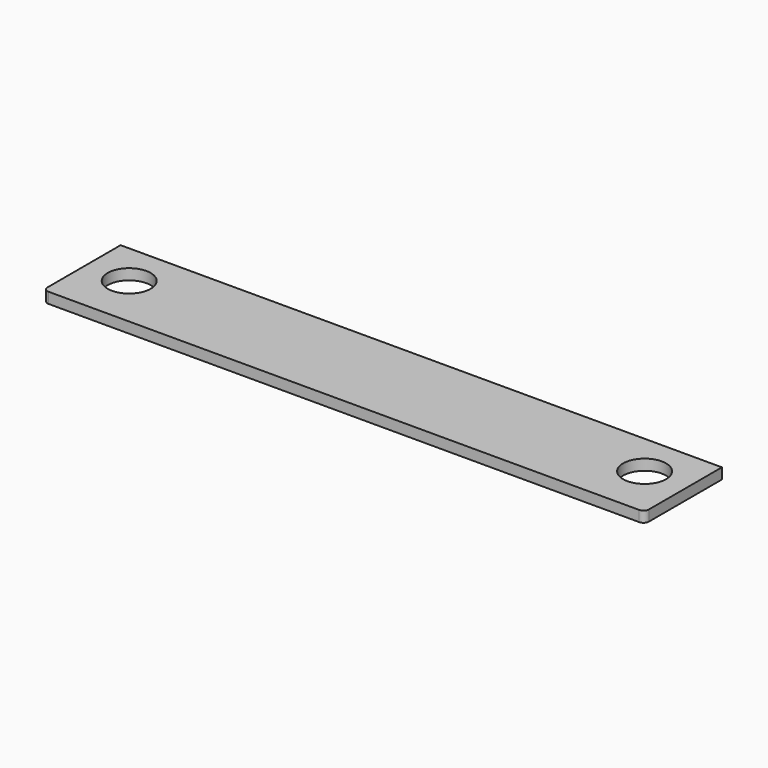
from build123d import *

# Parameters (mm, degrees)
F0_R     = 2
F1_DEPTH = 1


with BuildPart() as f1:
    # F0 (on Top) → F1 (new body)
    with BuildSketch(Plane.XY):
        with BuildLine():
            ThreePointArc((-28, -4.5), (-27.853553, -4.853553), (-27.5, -5))
            Line((-27.5, -5), (27.5, -5))
            ThreePointArc((27.5, -5), (27.853553, -4.853553), (28, -4.5))
            Line((28, -4.5), (28, 4))
            Line((28, 4), (-28, 4))
            Line((-28, 4), (-28, -4.5))
        make_face()
        with Locations((-24, 0)):
            Circle(F0_R, mode=Mode.SUBTRACT)
        with Locations((24, 0)):
            Circle(F0_R, mode=Mode.SUBTRACT)
    extrude(amount=F1_DEPTH)


solid = f1.part
